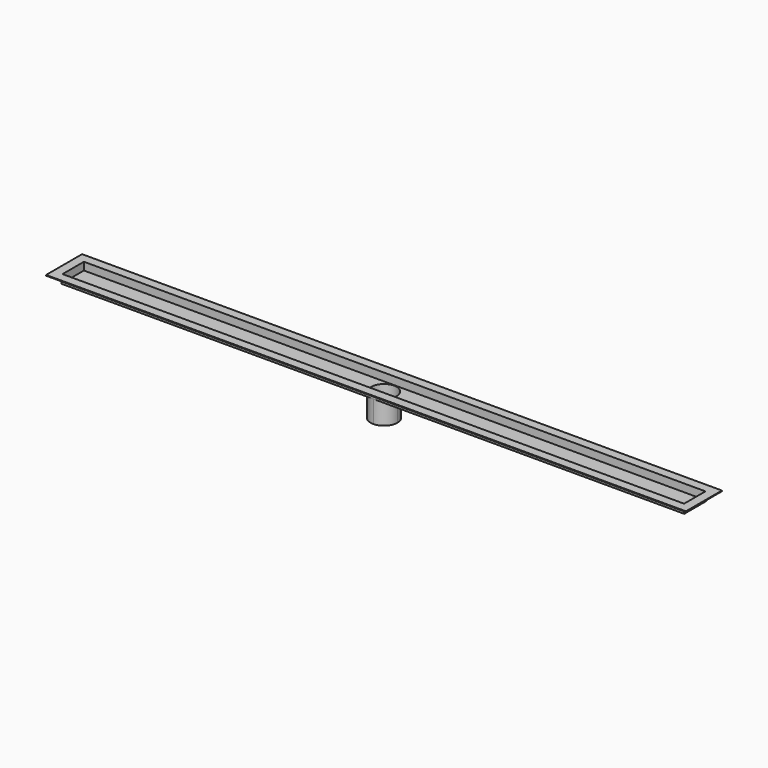
from build123d import *

# Parameters (mm, degrees)
F0_W     = 1406.525
F0_H     = 63.5
F0_W_2   = 1444.625
F0_H_2   = 101.6
F1_DEPTH = 1.5875
F0_R     = 28.575
F2_DEPTH = 19.05
F3_DEPTH = 69.85
F4_DEPTH = 17.4625
F5_DEPTH = 69.851


with BuildPart() as f1:
    # F0 (on Top) → F1 (new body)
    with BuildSketch(Plane.XY):
        with Locations((722.3125, 50.8)):
            Rectangle(F0_W, F0_H)
        Polygon((20.6375, 80.9625), (722.3125, 80.9625), (1423.9875, 80.9625), (1423.9875, 20.6375), (722.3125, 20.6375), (20.6375, 20.6375), align=None, mode=Mode.SUBTRACT)
        with Locations((722.3125, 50.8)):
            Rectangle(F0_W_2, F0_H_2)
        with Locations((722.3125, 50.8)):
            Rectangle(F0_W, F0_H, mode=Mode.SUBTRACT)
    extrude(amount=-F1_DEPTH)

    # F0 (on Top) → F2 (join)
    with BuildSketch(Plane.XY):
        with Locations((722.3125, 50.8)):
            Rectangle(F0_W, F0_H)
        Polygon((20.6375, 80.9625), (722.3125, 80.9625), (1423.9875, 80.9625), (1423.9875, 20.6375), (722.3125, 20.6375), (20.6375, 20.6375), align=None, mode=Mode.SUBTRACT)
        with BuildLine():
            ThreePointArc((722.3125, 20.6375), (692.15, 50.8), (722.3125, 80.9625))
            Line((722.3125, 80.9625), (20.6375, 80.9625))
            Line((20.6375, 80.9625), (20.6375, 20.6375))
            Line((20.6375, 20.6375), (722.3125, 20.6375))
        make_face()
        with BuildLine():
            ThreePointArc((722.3125, 80.9625), (743.640608, 72.128108), (752.475, 50.8))
            ThreePointArc((752.475, 50.8), (743.640608, 29.471892), (722.3125, 20.6375))
            Line((722.3125, 20.6375), (1423.9875, 20.6375))
            Line((1423.9875, 20.6375), (1423.9875, 80.9625))
            Line((1423.9875, 80.9625), (722.3125, 80.9625))
        make_face()
        with BuildLine():
            ThreePointArc((722.3125, 20.6375), (743.640608, 29.471892), (752.475, 50.8))
            ThreePointArc((752.475, 50.8), (743.640608, 72.128108), (722.3125, 80.9625))
            ThreePointArc((722.3125, 80.9625), (692.15, 50.8), (722.3125, 20.6375))
        make_face()
        with Locations((722.3125, 50.8)):
            Circle(F0_R, mode=Mode.SUBTRACT)
        with Locations((722.3125, 50.8)):
            Circle(F0_R)
    extrude(amount=-F2_DEPTH)

    # F0 (on Top) → F3 (join)
    with BuildSketch(Plane.XY):
        with BuildLine():
            ThreePointArc((722.3125, 20.6375), (743.640608, 29.471892), (752.475, 50.8))
            ThreePointArc((752.475, 50.8), (743.640608, 72.128108), (722.3125, 80.9625))
            ThreePointArc((722.3125, 80.9625), (692.15, 50.8), (722.3125, 20.6375))
        make_face()
        with Locations((722.3125, 50.8)):
            Circle(F0_R, mode=Mode.SUBTRACT)
    extrude(amount=-F3_DEPTH)

    # F0 (on Top) → F4 (cut)
    with BuildSketch(Plane.XY):
        with BuildLine():
            ThreePointArc((722.3125, 20.6375), (692.15, 50.8), (722.3125, 80.9625))
            Line((722.3125, 80.9625), (20.6375, 80.9625))
            Line((20.6375, 80.9625), (20.6375, 20.6375))
            Line((20.6375, 20.6375), (722.3125, 20.6375))
        make_face()
        with BuildLine():
            ThreePointArc((722.3125, 80.9625), (743.640608, 72.128108), (752.475, 50.8))
            ThreePointArc((752.475, 50.8), (743.640608, 29.471892), (722.3125, 20.6375))
            Line((722.3125, 20.6375), (1423.9875, 20.6375))
            Line((1423.9875, 20.6375), (1423.9875, 80.9625))
            Line((1423.9875, 80.9625), (722.3125, 80.9625))
        make_face()
        with BuildLine():
            ThreePointArc((722.3125, 20.6375), (743.640608, 29.471892), (752.475, 50.8))
            ThreePointArc((752.475, 50.8), (743.640608, 72.128108), (722.3125, 80.9625))
            ThreePointArc((722.3125, 80.9625), (692.15, 50.8), (722.3125, 20.6375))
        make_face()
        with Locations((722.3125, 50.8)):
            Circle(F0_R, mode=Mode.SUBTRACT)
        with Locations((722.3125, 50.8)):
            Circle(F0_R)
    extrude(amount=-F4_DEPTH, mode=Mode.SUBTRACT)

    # F0 (on Top) → F5 (cut, through all)
    with BuildSketch(Plane.XY):
        with Locations((722.3125, 50.8)):
            Circle(F0_R)
    extrude(amount=-F5_DEPTH, mode=Mode.SUBTRACT)


solid = f1.part
